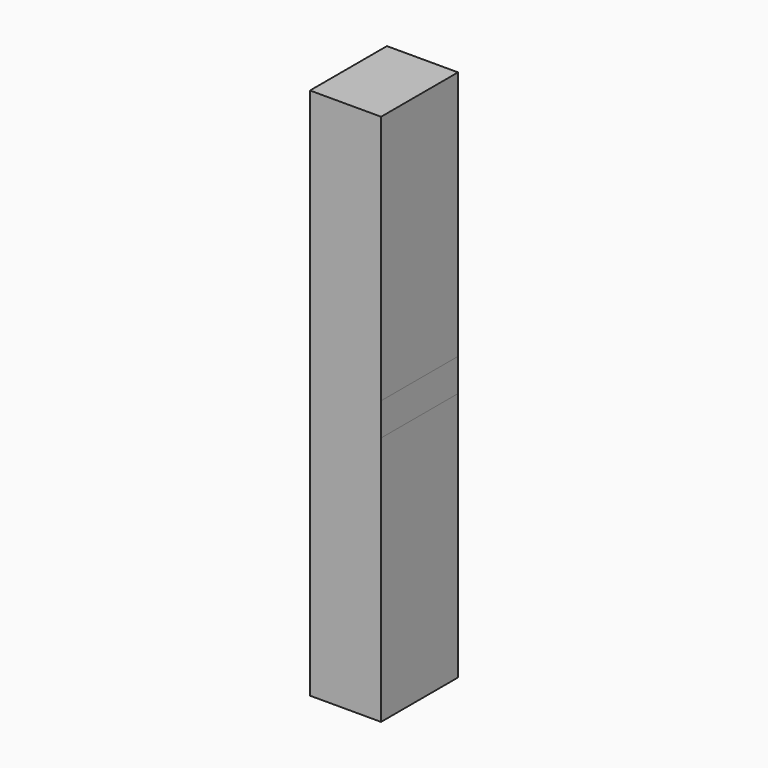
from build123d import *

# Parameters (mm, degrees)
F0_W     = 20.6502
F0_H     = 72.644
F0_W_2   = 20.6375
F0_H_2   = 72.61225
F1_DEPTH = 27.94
F2_W     = 18.0975
F2_H     = 68.168097
F2_W_2   = 18.1102
F2_H_2   = 68.198153
F3_DEPTH = 25.4


with BuildPart() as f1:
    # F0 (on Front) → F1 (new body)
    with BuildSketch(Plane.XZ):
        with Locations((10.3251, 118.45925)):
            Rectangle(F0_W, F0_H)
        Polygon((0, 82.13725), (0, 72.61225), (20.6375, 72.61225), (20.6502, 82.13725), align=None)
        with Locations((10.31875, 36.306125)):
            Rectangle(F0_W_2, F0_H_2)
    extrude(amount=F1_DEPTH)

    # F2 (on face) → F3 (cut)
    with BuildSketch(Plane(origin=(0, 0, 0), x_dir=(-1, 0, 0), z_dir=(0, 1, 0))):
        with Locations((-10.31875, 35.354048)):
            Rectangle(F2_W, F2_H)
        with Locations((-10.3251, 119.412173)):
            Rectangle(F2_W_2, F2_H_2)
    extrude(amount=-F3_DEPTH, mode=Mode.SUBTRACT)


solid = f1.part
